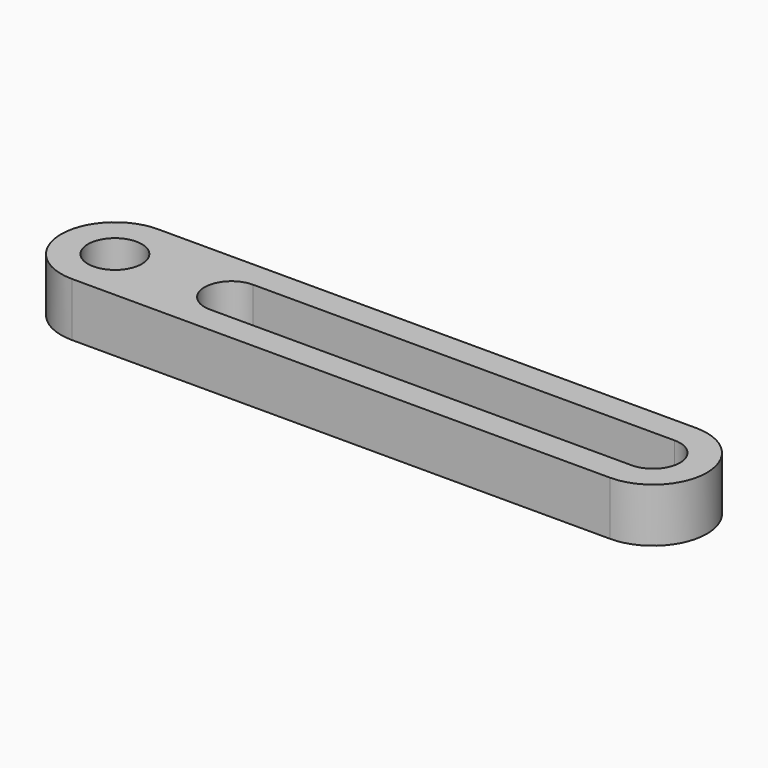
from build123d import *

# Parameters (mm, degrees)
F0_R     = 1.5
F1_DEPTH = 3


with BuildPart() as f1:
    # F0 (on Top) → F1 (new body)
    with BuildSketch(Plane.XY):
        with BuildLine():
            Line((15, 3), (0, 3))
            Line((0, 3), (-15, 3))
            ThreePointArc((-15, 3), (-12.87868, 2.12132), (-12, 0))
            ThreePointArc((-12, 0), (-12.87868, -2.12132), (-15, -3))
            Line((-15, -3), (0, -3))
            Line((0, -3), (15, -3))
            ThreePointArc((15, -3), (18, 0), (15, 3))
        make_face()
        with BuildLine():
            ThreePointArc((-8.5, -1.5), (-10, 0), (-8.5, 1.5))
            Line((-8.5, 1.5), (15, 1.5))
            ThreePointArc((15, 1.5), (16.06066, 1.06066), (16.5, 0))
            ThreePointArc((16.5, 0), (16.06066, -1.06066), (15, -1.5))
            Line((15, -1.5), (-8.5, -1.5))
        make_face(mode=Mode.SUBTRACT)
        with BuildLine():
            ThreePointArc((-12, 0), (-12.87868, 2.12132), (-15, 3))
            ThreePointArc((-15, 3), (-18, 0), (-15, -3))
            ThreePointArc((-15, -3), (-12.87868, -2.12132), (-12, 0))
        make_face()
        with Locations((-15, 0)):
            Circle(F0_R, mode=Mode.SUBTRACT)
    extrude(amount=F1_DEPTH)


solid = f1.part
